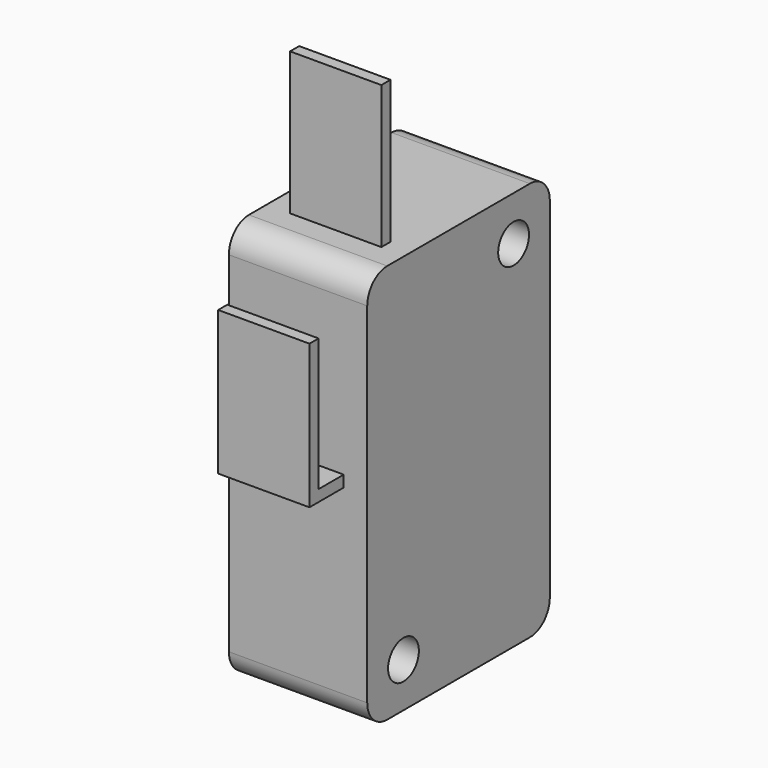
from build123d import *

# Parameters (mm, degrees)
SKETCH036_R             = 1.35
PAD036_DEPTH            = 9.7
SKETCH037_W             = 2.9
SKETCH037_H             = 4.1
PAD037_DEPTH            = 3
SKETCH038_W             = 0.8
SKETCH038_H             = 6.4
PAD038_DEPTH            = 10
SKETCH039_W             = 0.8
SKETCH039_H             = 6.4
PAD039_DEPTH            = 3
SKETCH040_W             = 0.8
SKETCH040_H             = 6.4
PAD040_DEPTH            = 9.3
FILLET004_R             = 1.2
BODY008_PLACEMENT_ANGLE = 90


with BuildPart() as part:
    # Sketch036 → Pad036 (new body)
    with BuildSketch(Plane.XY):
        with BuildLine():
            ThreePointArc((-12.25, 8), (-13.487437, 7.487437), (-14, 6.25))
            Line((-14, -6.25), (-14, 6.25))
            ThreePointArc((-14, -6.25), (-13.487437, -7.487437), (-12.25, -8))
            Line((12.25, -8), (-12.25, -8))
            ThreePointArc((12.25, -8), (13.487437, -7.487437), (14, -6.25))
            Line((14, 6.25), (14, -6.25))
            ThreePointArc((14, 6.25), (13.487437, 7.487437), (12.25, 8))
            Line((-12.25, 8), (12.25, 8))
        make_face()
        with Locations((10.877931, -4.825)):
            Circle(SKETCH036_R, mode=Mode.SUBTRACT)
        with Locations((-10.877931, 4.825)):
            Circle(SKETCH036_R, mode=Mode.SUBTRACT)
    extrude(amount=PAD036_DEPTH)

    # Sketch037 (on Face8 of Pad036) → Pad037 (join)
    with BuildSketch(Plane(origin=(0, 8, 0), x_dir=(-1, 0, 0), z_dir=(0, 1, 0))):
        with Locations((-9.45, 4.85)):
            Rectangle(SKETCH037_W, SKETCH037_H)
    extrude(amount=PAD037_DEPTH)

    # Sketch038 (on Face3 of Pad037) → Pad038 (join)
    with BuildSketch(Plane(origin=(-14, 0, 0), x_dir=(0, -1, 0), z_dir=(-1, 0, 0))):
        with Locations((4.3, 4.85)):
            Rectangle(SKETCH038_W, SKETCH038_H)
    extrude(amount=PAD038_DEPTH)

    # Sketch039 (on Face16 of Pad038) → Pad039 (join)
    with BuildSketch(Plane.XZ.offset(8)):
        with Locations((-0.9, 4.85)):
            Rectangle(SKETCH039_W, SKETCH039_H)
    extrude(amount=PAD039_DEPTH)

    # Sketch040 (on Face23 of Pad039) → Pad040 (join)
    with BuildSketch(Plane(origin=(-1.3, 0, 0), x_dir=(0, -1, 0), z_dir=(-1, 0, 0))):
        with Locations((10.6, 4.85)):
            Rectangle(SKETCH040_W, SKETCH040_H)
    extrude(amount=PAD040_DEPTH)

    # Fillet004
    fillet004_edges = [part.edges().sort_by_distance(p)[0] for p in [
        (10.9, 11, 4.85),
        (8, 11, 4.85),
    ]]
    fillet(fillet004_edges, radius=FILLET004_R)


with BuildPart() as part_1:
    # Body008 placement: moved
    add(part.part.moved(Location((122.3, 0, -97))).rotate(Axis((122.3, 0, -97), (0, 1, 0)), BODY008_PLACEMENT_ANGLE))


solid = part_1.part
